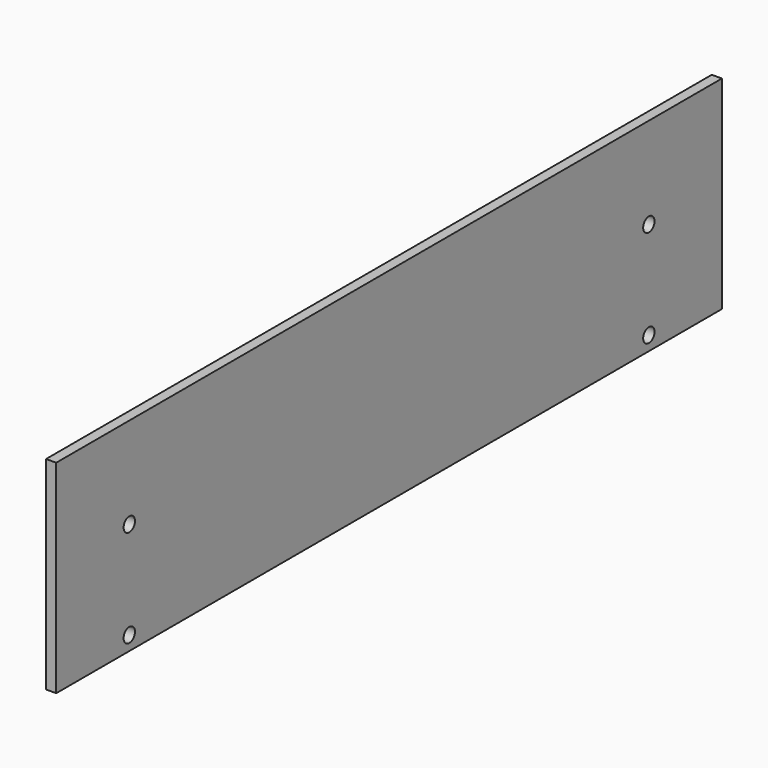
from build123d import *

# Parameters (mm, degrees)
F0_W     = 410
F0_H     = 100
F0_R     = 3.5
F1_DEPTH = 5


with BuildPart() as f1:
    # F0 (on Right) → F1 (new body)
    with BuildSketch(Plane.YZ):
        with Locations((0, 50)):
            Rectangle(F0_W, F0_H)
        with Locations((-160, 7)):
            Circle(F0_R, mode=Mode.SUBTRACT)
        with Locations((160, 7)):
            Circle(F0_R, mode=Mode.SUBTRACT)
        with Locations((-160, 55)):
            Circle(F0_R, mode=Mode.SUBTRACT)
        with Locations((160, 55)):
            Circle(F0_R, mode=Mode.SUBTRACT)
    extrude(amount=F1_DEPTH)


solid = f1.part
